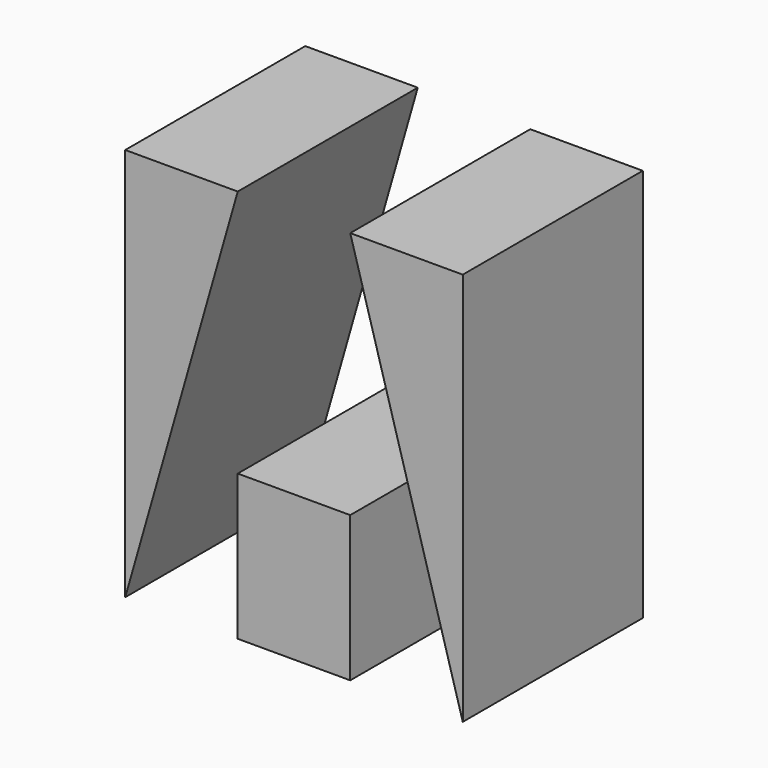
from build123d import *

# Parameters (mm, degrees)
F0_W     = 38.1
F0_H     = 44.45
F1_DEPTH = 25.4
F3_DEPTH = 25.4
F4_DEPTH = 25.4


with BuildPart() as f1:
    # F0 (on Front) → F1 (new body)
    with BuildSketch(Plane.XZ):
        with Locations((19.05, 22.225)):
            Rectangle(F0_W, F0_H)
    extrude(amount=F1_DEPTH)


with BuildPart() as f3:
    # F2 (on Front) → F3 (new body)
    with BuildSketch(Plane.XZ):
        Polygon((25.4, 44.45), (12.7, 44.45), (0, 0), (12.7, 0), (12.7, 16.4224114985), (25.4, 16.4224114985), (25.4, 0), (38.1, 0), align=None)
    extrude(amount=F3_DEPTH)


with BuildPart() as f4_tool:
    # F2 (on Front) → F4 (new body)
    with BuildSketch(Plane.XZ):
        Polygon((25.4, 44.45), (12.7, 44.45), (0, 0), (12.7, 0), (12.7, 16.4224114985), (25.4, 16.4224114985), (25.4, 0), (38.1, 0), align=None)
    extrude(amount=F4_DEPTH)


with BuildPart() as f1_1:
    add(f1.part)

    # F4: cut by f4_tool
    add(f4_tool.part, mode=Mode.SUBTRACT)


with BuildPart() as f3_1:
    add(f3.part)

    # F4: cut by f4_tool
    add(f4_tool.part, mode=Mode.SUBTRACT)


solid = f1_1.part
